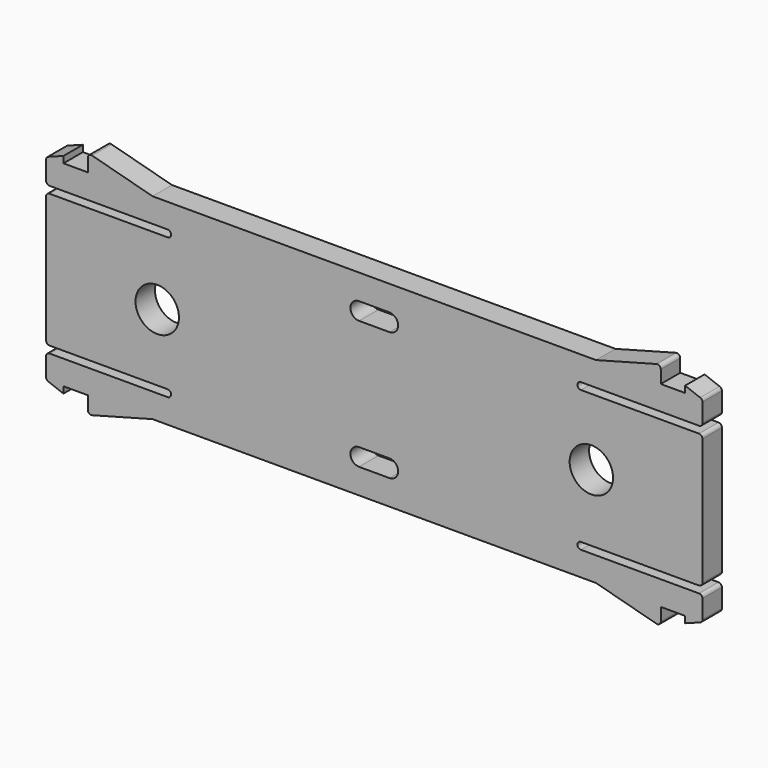
from build123d import *

# Parameters (mm, degrees)
PAD010_DEPTH    = 2.8
FILLET003_R     = 0.4
SKETCH016_R     = 2.5
POCKET008_DEPTH = 2.801
POCKET_DEPTH    = 2.801


with BuildPart() as part:
    # Sketch010 (on Face2 of ShapeBinder009) → Pad010 (new body)
    with BuildSketch(Plane.XZ.offset(25.388718)):
        with BuildLine():
            Line((37.8, 63.127675), (37.8, 60.327675))
            Line((37.8, 60.327675), (23.8, 60.327675))
            ThreePointArc((23.8, 60.327675), (23.4, 59.927675), (23.8, 59.527675))
            Line((23.8, 59.527675), (37.8, 59.527675))
            Line((37.8, 59.527675), (37.8, 44.127675))
            Line((37.8, 44.127675), (23.8, 44.127675))
            ThreePointArc((23.8, 44.127675), (23.4, 43.727675), (23.8, 43.327675))
            Line((23.8, 43.327675), (37.8, 43.327675))
            Line((37.8, 43.327675), (37.8, 40.527675))
            Line((37.8, 40.527675), (35.8, 39.777675))
            Line((35.8, 40.527675), (35.8, 39.777675))
            Line((35.8, 40.527675), (33, 40.527675))
            Line((33, 40.527675), (33, 38.527675))
            Line((33, 38.527675), (25.535898, 40.527675))
            Line((25.535898, 40.527675), (-25.535898, 40.527675))
            Line((-25.535898, 40.527675), (-33, 38.527675))
            Line((-33, 38.527675), (-33, 40.527675))
            Line((-33, 40.527675), (-35.8, 40.527675))
            Line((-35.8, 40.527675), (-35.8, 39.777675))
            Line((-37.8, 40.527675), (-35.8, 39.777675))
            Line((-37.8, 40.527675), (-37.8, 43.327675))
            Line((-37.8, 43.327675), (-23.8, 43.327675))
            ThreePointArc((-23.8, 43.327675), (-23.4, 43.727675), (-23.8, 44.127675))
            Line((-23.8, 44.127675), (-37.8, 44.127675))
            Line((-37.8, 44.127675), (-37.8, 59.527675))
            Line((-37.8, 59.527675), (-23.8, 59.527675))
            ThreePointArc((-23.8, 59.527675), (-23.4, 59.927675), (-23.8, 60.327675))
            Line((-23.8, 60.327675), (-37.8, 60.327675))
            Line((-37.8, 60.327675), (-37.8, 63.127675))
            Line((-35.8, 63.877675), (-37.8, 63.127675))
            Line((-35.8, 63.127675), (-35.8, 63.877675))
            Line((-35.8, 63.127675), (-33, 63.127675))
            Line((-33, 63.127675), (-33, 65.127675))
            Line((-33, 65.127675), (-25.535898, 63.127675))
            Line((-25.535898, 63.127675), (25.535898, 63.127675))
            Line((25.535898, 63.127675), (33, 65.127675))
            Line((33, 65.127675), (33, 63.127675))
            Line((33, 63.127675), (35.8, 63.127675))
            Line((35.8, 63.127675), (35.8, 63.877675))
            Line((35.8, 63.877675), (37.8, 63.127675))
        make_face()
    extrude(amount=-PAD010_DEPTH)

    # Fillet003
    fillet003_edges = [part.edges().sort_by_distance(p)[0] for p in [
        (33, -23.988718, 65.127675),
        (37.8, -23.988718, 63.127675),
        (37.8, -23.988718, 60.327675),
        (37.8, -23.988718, 59.527675),
        (37.8, -23.988718, 44.127675),
        (37.8, -23.988718, 43.327675),
        (37.8, -23.988718, 40.527675),
        (33, -23.988718, 38.527675),
        (-33, -23.988718, 65.127675),
        (-37.8, -23.988718, 63.127675),
        (-37.8, -23.988718, 60.327675),
        (-37.8, -23.988718, 59.527675),
        (-37.8, -23.988718, 44.127675),
        (-37.8, -23.988718, 43.327675),
        (-37.8, -23.988718, 40.527675),
        (-33, -23.988718, 38.527675),
    ]]
    fillet(fillet003_edges, radius=FILLET003_R)

    # Sketch016 (on Face2 of Fillet003) → Pocket008 (cut, through all)
    with BuildSketch(Plane.XZ.offset(25.388718)):
        with Locations((-25, 51.827675)):
            Circle(SKETCH016_R)
        with Locations((25, 51.827675)):
            Circle(SKETCH016_R)
    extrude(amount=-POCKET008_DEPTH, mode=Mode.SUBTRACT)

    # Sketch018 (on Face2 of Pocket008) → Pocket (cut, through all)
    with BuildSketch(Plane.XZ.offset(25.388718)):
        with BuildLine():
            ThreePointArc((-1.75, 60.227675), (-2.75, 59.227675), (-1.75, 58.227675))
            Line((-1.75, 58.227675), (1.75, 58.227675))
            ThreePointArc((1.75, 58.227675), (2.75, 59.227675), (1.75, 60.227675))
            Line((-1.75, 60.227675), (1.75, 60.227675))
        make_face()
        with BuildLine():
            ThreePointArc((-1.75, 45.427675), (-2.75, 44.427675), (-1.75, 43.427675))
            Line((-1.75, 43.427675), (1.75, 43.427675))
            ThreePointArc((1.75, 43.427675), (2.75, 44.427675), (1.75, 45.427675))
            Line((-1.75, 45.427675), (1.75, 45.427675))
        make_face()
    extrude(amount=-POCKET_DEPTH, mode=Mode.SUBTRACT)


solid = part.part
